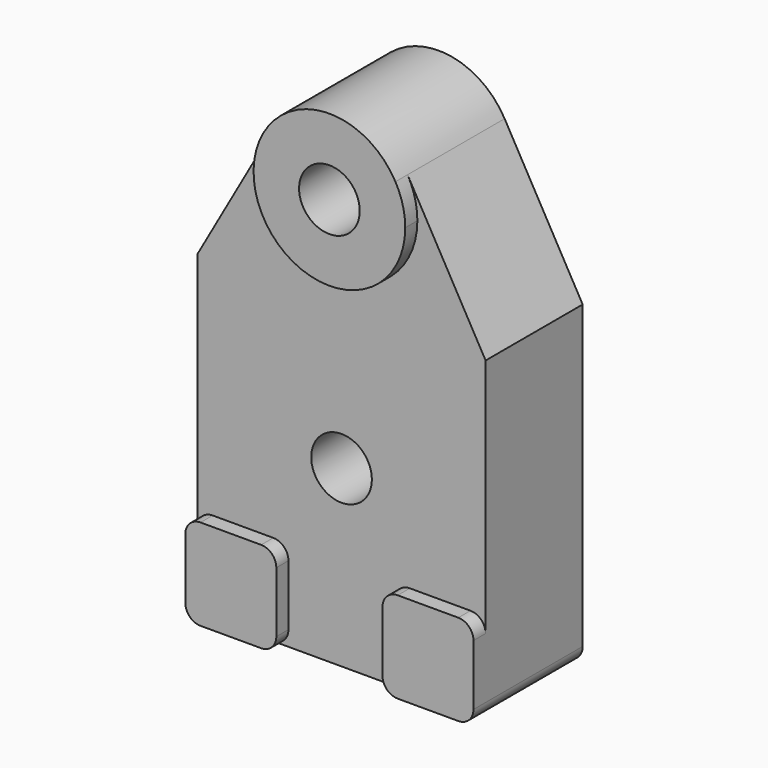
from build123d import *

# Parameters (mm, degrees)
F0_R     = 4
F1_DEPTH = 16
F2_DEPTH = 18


with BuildPart() as f1:
    # F0 (on Front) → F1 (new body)
    with BuildSketch(Plane.XZ):
        with BuildLine():
            ThreePointArc((-7, -43.262344), (-7.585786, -44.676558), (-9, -45.262344))
            Line((-9, -45.262344), (9, -45.262344))
            ThreePointArc((9, -45.262344), (7.585786, -44.676558), (7, -43.262344))
            Line((7, -43.262344), (7, -35.262344))
            ThreePointArc((7, -35.262344), (7.585786, -33.848131), (9, -33.262344))
            Line((9, -33.262344), (17, -33.262344))
            ThreePointArc((17, -33.262344), (18.414214, -33.848131), (19, -35.262344))
            Line((19, -35.262344), (19, -22.262344))
            Line((19, -22.262344), (19, -3.564815))
            Line((19, -3.564815), (8.706776, 14.656197))
            ThreePointArc((8.706776, 14.656197), (9.671292, 12.280512), (10, 9.737656))
            ThreePointArc((10, 9.737656), (-2.542856, 0.066364), (-8.706776, 14.656197))
            Line((-8.706776, 14.656197), (-19, -3.564815))
            Line((-19, -3.564815), (-19, -22.262344))
            Line((-19, -22.262344), (-19, -35.262344))
            ThreePointArc((-19, -35.262344), (-18.414214, -33.848131), (-17, -33.262344))
            Line((-17, -33.262344), (-9, -33.262344))
            ThreePointArc((-9, -33.262344), (-7.585786, -33.848131), (-7, -35.262344))
            Line((-7, -35.262344), (-7, -43.262344))
        make_face()
        with Locations((0, -22.262344)):
            Circle(F0_R, mode=Mode.SUBTRACT)
    extrude(amount=F1_DEPTH)

    # F0 (on Front) → F2 (join)
    with BuildSketch(Plane.XZ):
        with BuildLine():
            ThreePointArc((8.706776, 14.656197), (0, 19.737656), (-8.706776, 14.656197))
            ThreePointArc((-8.706776, 14.656197), (-2.542856, 0.066364), (10, 9.737656))
            ThreePointArc((10, 9.737656), (9.671292, 12.280512), (8.706776, 14.656197))
        make_face()
        with Locations((0, 9.737656)):
            Circle(F0_R, mode=Mode.SUBTRACT)
        with BuildLine():
            ThreePointArc((-19, -43.262344), (-18.414214, -44.676558), (-17, -45.262344))
            Line((-17, -45.262344), (-9, -45.262344))
            ThreePointArc((-9, -45.262344), (-7.585786, -44.676558), (-7, -43.262344))
            Line((-7, -43.262344), (-7, -35.262344))
            ThreePointArc((-7, -35.262344), (-7.585786, -33.848131), (-9, -33.262344))
            Line((-9, -33.262344), (-17, -33.262344))
            ThreePointArc((-17, -33.262344), (-18.414214, -33.848131), (-19, -35.262344))
            Line((-19, -35.262344), (-19, -43.262344))
        make_face()
        with BuildLine():
            ThreePointArc((7, -43.262344), (7.585786, -44.676558), (9, -45.262344))
            Line((9, -45.262344), (17, -45.262344))
            ThreePointArc((17, -45.262344), (18.414214, -44.676558), (19, -43.262344))
            Line((19, -43.262344), (19, -35.262344))
            ThreePointArc((19, -35.262344), (18.414214, -33.848131), (17, -33.262344))
            Line((17, -33.262344), (9, -33.262344))
            ThreePointArc((9, -33.262344), (7.585786, -33.848131), (7, -35.262344))
            Line((7, -35.262344), (7, -43.262344))
        make_face()
    extrude(amount=F2_DEPTH)


solid = f1.part
